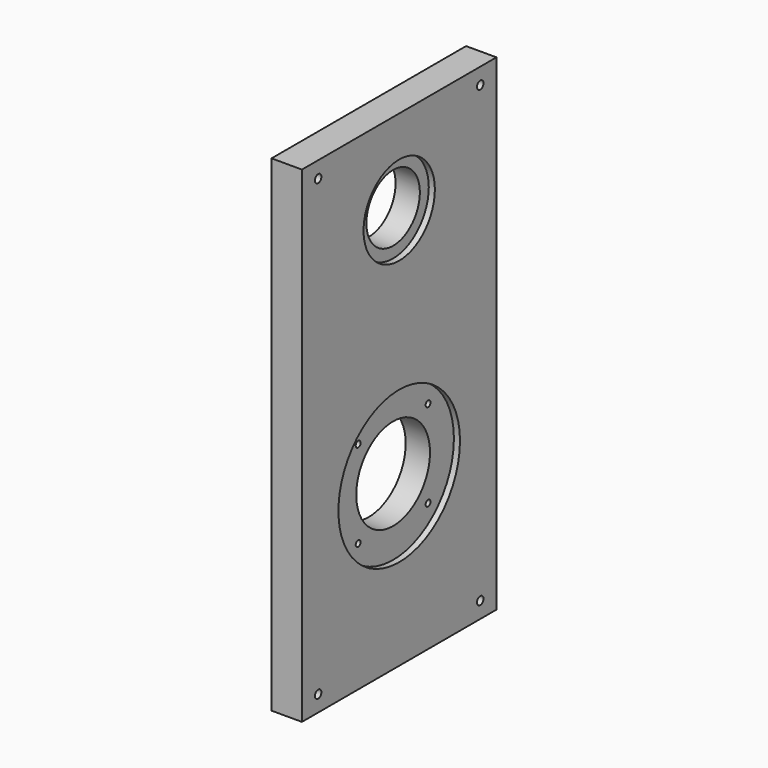
from build123d import *

# Parameters (mm, degrees)
F0_W     = 120
F0_H     = 240
F0_R     = 2
F0_R_2   = 37.5
F0_R_3   = 22
F1_DEPTH = 15
F0_R_4   = 16.5
F0_R_5   = 1.5
F0_R_6   = 22.75
F2_DEPTH = 12


with BuildPart() as f1:
    # F0 (on Right) → F1 (new body)
    with BuildSketch(Plane.YZ):
        with Locations((0, 5)):
            Rectangle(F0_W, F0_H)
        with Locations((-49.999999, -107)):
            Circle(F0_R, mode=Mode.SUBTRACT)
        with Locations((50.000001, -107)):
            Circle(F0_R, mode=Mode.SUBTRACT)
        with Locations((0, -32.5)):
            Circle(F0_R_2, mode=Mode.SUBTRACT)
        with Locations((-49.999999, 117)):
            Circle(F0_R, mode=Mode.SUBTRACT)
        with Locations((0, 83)):
            Circle(F0_R_3, mode=Mode.SUBTRACT)
        with Locations((50.000001, 117.000003)):
            Circle(F0_R, mode=Mode.SUBTRACT)
    extrude(amount=F1_DEPTH)

    # F0 (on Right) → F2 (join)
    with BuildSketch(Plane.YZ):
        with Locations((0, 83)):
            Circle(F0_R_3)
        with Locations((0, 83)):
            Circle(F0_R_4, mode=Mode.SUBTRACT)
        with Locations((0, -32.5)):
            Circle(F0_R_2)
        with Locations((-21.566757, -54.066757)):
            Circle(F0_R_5, mode=Mode.SUBTRACT)
        with Locations((-21.566757, -10.933243)):
            Circle(F0_R_5, mode=Mode.SUBTRACT)
        with Locations((0, -32.5)):
            Circle(F0_R_6, mode=Mode.SUBTRACT)
        with Locations((21.566757, -54.066757)):
            Circle(F0_R_5, mode=Mode.SUBTRACT)
        with Locations((21.566757, -10.933243)):
            Circle(F0_R_5, mode=Mode.SUBTRACT)
    extrude(amount=F2_DEPTH)


solid = f1.part
